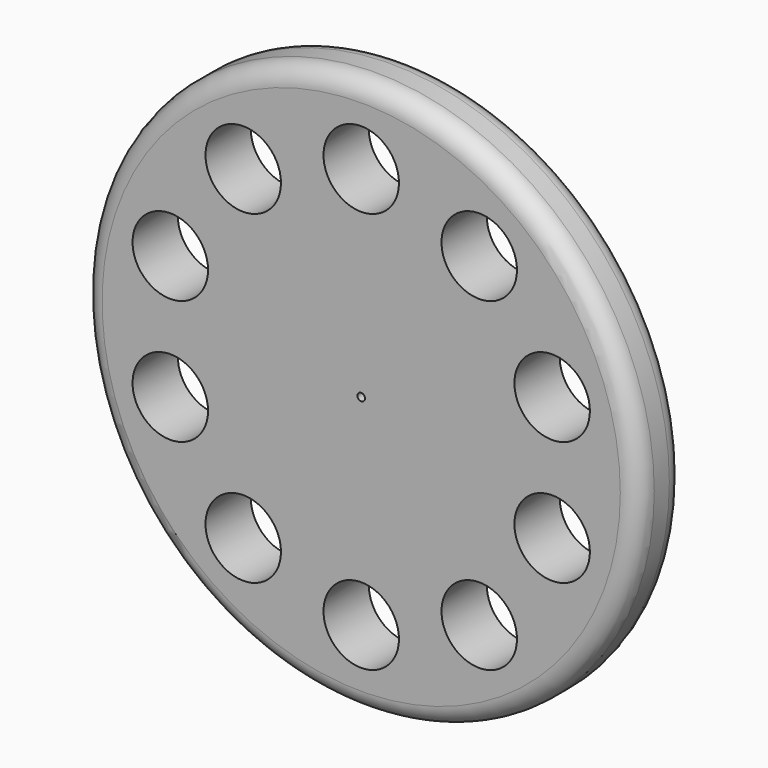
from build123d import *

# Parameters (mm, degrees)
F0_R     = 73.66
F0_R_2   = 10
F1_DEPTH = 15
F2_R     = 1
F3_DEPTH = 25
F4_R     = 5


with BuildPart() as f1:
    # F0 (on Front) → F1 (new body)
    with BuildSketch(Plane.XZ):
        Circle(F0_R)
        with Locations((-31.269082, -43.038199)):
            Circle(F0_R_2, mode=Mode.SUBTRACT)
        with Locations((0, -53.19814)):
            Circle(F0_R_2, mode=Mode.SUBTRACT)
        with Locations((-50.594438, -16.439129)):
            Circle(F0_R_2, mode=Mode.SUBTRACT)
        with Locations((31.269082, -43.038199)):
            Circle(F0_R_2, mode=Mode.SUBTRACT)
        with Locations((50.594438, -16.439129)):
            Circle(F0_R_2, mode=Mode.SUBTRACT)
        with Locations((-50.594438, 16.439129)):
            Circle(F0_R_2, mode=Mode.SUBTRACT)
        with Locations((-31.269082, 43.038199)):
            Circle(F0_R_2, mode=Mode.SUBTRACT)
        with Locations((0, 53.19814)):
            Circle(F0_R_2, mode=Mode.SUBTRACT)
        with Locations((50.594438, 16.439129)):
            Circle(F0_R_2, mode=Mode.SUBTRACT)
        with Locations((31.269082, 43.038199)):
            Circle(F0_R_2, mode=Mode.SUBTRACT)
    extrude(amount=F1_DEPTH)

    # F2 (on Front) → F3 (cut)
    with BuildSketch(Plane.XZ):
        Circle(F2_R)
    extrude(amount=F3_DEPTH, mode=Mode.SUBTRACT)

    # F4
    f4_edges = [f1.edges().sort_by_distance(p)[0] for p in [
        (-73.66, -15, 0),
        (-73.66, 0, 0),
    ]]
    fillet(f4_edges, radius=F4_R)


solid = f1.part
